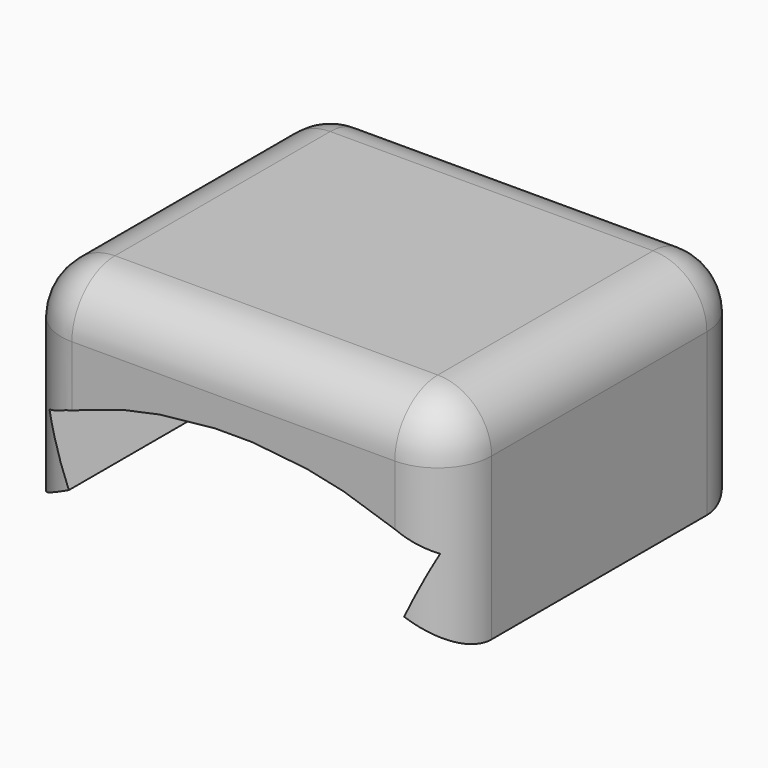
from build123d import *

# Parameters (mm, degrees)
F2_DEPTH = 10.5
F3_R     = 1.5


with BuildPart() as f2:
    # F1 (on Front) → F2 (new body)
    with BuildSketch(Plane.XZ):
        with BuildLine():
            ThreePointArc((4.7450043584, 9.3666927802), (5.3855684914, 9.0136370032), (6, 8.6168439698))
            Line((6, 8.6168439698), (6, 14.6168439698))
            Line((6, 14.6168439698), (-6, 14.6168439698))
            Line((-6, 14.6168439698), (-6, 8.6168439698))
            ThreePointArc((-6, 8.6168439698), (-5.3102022299, 9.0582422289), (-4.5881023726, 9.4445389839))
            Line((-4.5881023726, 9.4445389839), (-5.3202283302, 11.0889208077))
            Line((-5.3202283302, 11.0889208077), (-4.6807465098, 11.3736364578))
            Line((-4.6807465098, 11.3736364578), (-3.0681107388, 11.9092156302))
            Line((-3.0681107388, 11.9092156302), (-2.0410557581, 12.1275229055))
            Line((-2.0410557581, 12.1275229055), (-0.525, 12.2868667866))
            Line((-0.525, 12.2868667866), (0.525, 12.2868667866))
            Line((0.525, 12.2868667866), (2.0410557581, 12.1275229055))
            Line((2.0410557581, 12.1275229055), (3.0681107388, 11.9092156302))
            Line((3.0681107388, 11.9092156302), (4.5179075854, 11.4381480792))
            Line((4.5179075854, 11.4381480792), (5.477130316, 11.0110746039))
            Line((5.477130316, 11.0110746039), (4.7450043584, 9.3666927802))
        make_face()
    extrude(amount=F2_DEPTH)

    # F3
    f3_edges = [f2.edges().sort_by_distance(p)[0] for p in [
        (-6, -10.5, 11.616844),
        (6, -10.5, 11.616844),
        (6, 0, 11.616844),
        (-6, 0, 11.616844),
        (6, -5.25, 14.616844),
        (-6, -5.25, 14.616844),
        (0, 0, 14.616844),
        (0, -10.5, 14.616844),
    ]]
    fillet(f3_edges, radius=F3_R)


solid = f2.part
